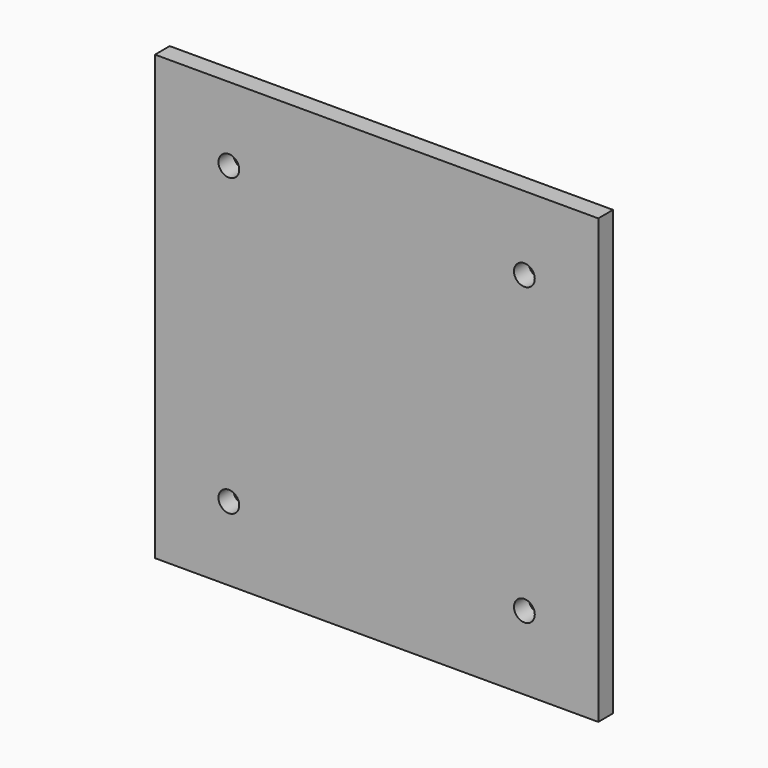
from build123d import *

# Parameters (mm, degrees)
F0_W     = 304.8
F0_H     = 304.8
F1_DEPTH = 12.7
F3_D     = 14.2875


with BuildPart() as f1:
    # F0 (on Front) → F1 (new body)
    with BuildSketch(Plane.XZ):
        Rectangle(F0_W, F0_H)
    extrude(amount=F1_DEPTH)

    # F3 (through all)
    with Locations(Plane(origin=(0, 0, 0), x_dir=(-1, 0, 0), z_dir=(0, 1, 0))):
        with Locations((-101.6, 101.6), (101.6, 101.6), (101.6, -101.6), (-101.6, -101.6)):
            Hole(F3_D / 2)


solid = f1.part
